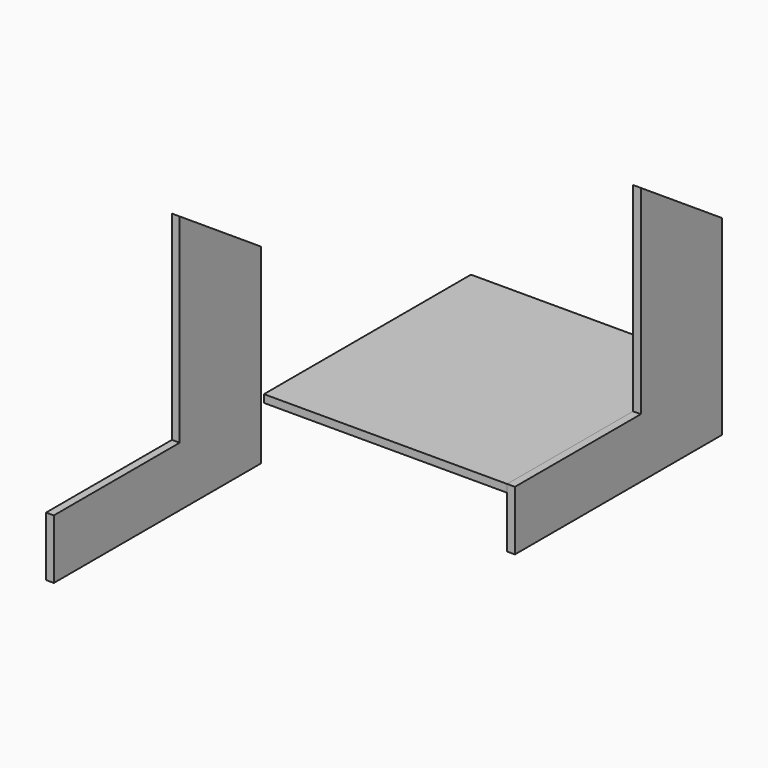
from build123d import *

# Parameters (mm, degrees)
F0_W     = 376
F0_H     = 400
F1_DEPTH = 12
F2_W     = 400
F2_H     = 80
F3_DEPTH = 12


with BuildPart() as f1:
    # F0 (on Top) → F1 (new body)
    with BuildSketch(Plane.XY):
        Rectangle(F0_W, F0_H)
    extrude(amount=F1_DEPTH)


with BuildPart() as f3:
    # F2 (on face) → F3 (new body)
    with BuildSketch(Plane.YZ.offset(188)):
        Polygon((43.2325154543, 12), (-200, 12), (-200, -80), (200, -80), (200, 12), align=None)
        with BuildLine():
            Line((43.2325154543, 320), (43.2325154543, 12))
            Line((43.2325154543, 12), (200, 12))
            Line((200, 12), (200, 215.310126543))
            add(Edge.make_bspline(
                [(147.7441718181, 250.2067510287), (165.1627812121, 238.5745428668), (182.581390606, 226.9423347049), (200, 215.310126543)],
                knots=[125.6733222203, 125.6733222203, 125.6733222203, 125.6733222203, 188.5099833304, 188.5099833304, 188.5099833304, 188.5099833304], degree=3))
            add(Edge.make_bspline(
                [(43.2325154543, 320), (78.0697342422, 296.7355836762), (112.9069530302, 273.4711673525), (147.7441718181, 250.2067510287)],
                knots=[0, 0, 0, 0, 125.6733222203, 125.6733222203, 125.6733222203, 125.6733222203], degree=3))
        make_face()
        with Locations((0, -40)):
            Rectangle(F2_W, F2_H)
    extrude(amount=F3_DEPTH)


with BuildPart() as f4_1:
    # F4: copy of F3
    add(f3.part.moved(Location((-388, -406, 0))))


solid = Compound([f1.part, f3.part, f4_1.part])
